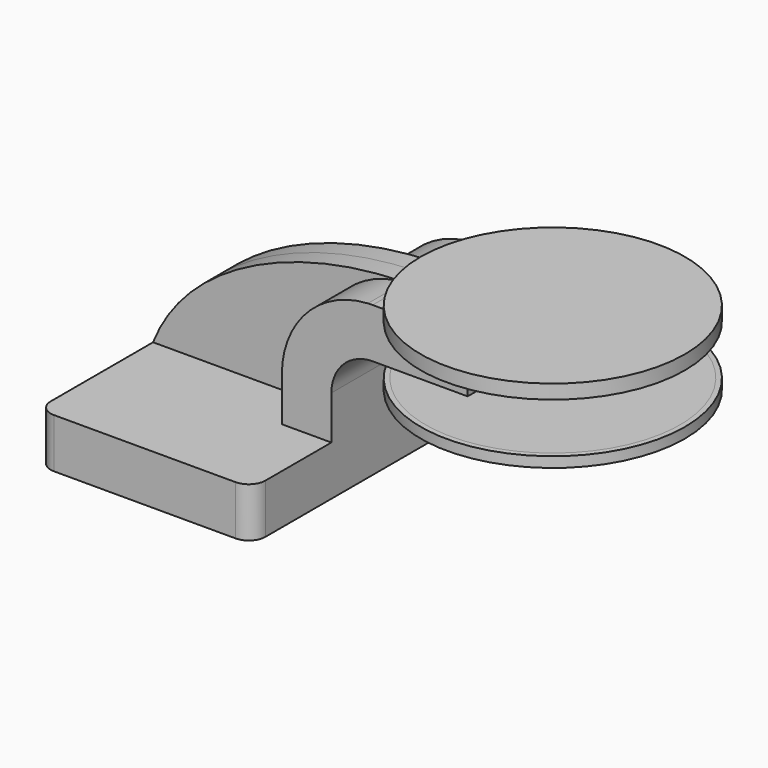
from build123d import *

# Parameters (mm, degrees)
F1_DEPTH = 63.5
F2_DEPTH = 25.4
F3_DEPTH = 7.9375
F5_R     = 6.35


with BuildPart() as f1:
    # F0 (on Front) → F1 (new body, symmetric)
    with BuildSketch(Plane.XZ):
        Polygon((41.275, -9.525), (41.275, 9.525), (22.225, 9.525), (-41.275, 9.525), (-41.275, -9.525), align=None)
    extrude(amount=F1_DEPTH, both=True)

    # F0 (on Front) → F2 (join, symmetric)
    with BuildSketch(Plane.XZ):
        with BuildLine():
            Line((22.225, 9.525), (41.275, 9.525))
            Line((41.275, 9.525), (41.275, 26.3144))
            ThreePointArc((41.275, 26.3144), (45.293372, 36.870725), (55.314181, 42.082894))
            Line((55.314181, 42.082894), (55.314181, 61.191117))
            ThreePointArc((55.314181, 61.191117), (31.813548, 50.352283), (22.225, 26.3144))
            Line((22.225, 26.3144), (22.225, 9.525))
        make_face()
        with BuildLine():
            Line((55.314181, 61.191117), (55.314181, 42.082894))
            ThreePointArc((55.314181, 42.082894), (56.230547, 42.162751), (57.15, 42.1894))
            Line((57.15, 42.1894), (93.6752, 42.1894))
            Line((93.6752, 42.1894), (93.6752, 61.2394))
            Line((93.6752, 61.2394), (57.15, 61.2394))
            ThreePointArc((57.15, 61.2394), (56.231773, 61.227327), (55.314181, 61.191117))
        make_face()
    extrude(amount=F2_DEPTH, both=True)

    # F0 (on Front) → F3 (join, symmetric)
    with BuildSketch(Plane.XZ):
        with BuildLine():
            Line((-41.275, 9.525), (22.225, 9.525))
            Line((22.225, 9.525), (22.225, 26.3144))
            ThreePointArc((22.225, 26.3144), (31.813548, 50.352283), (55.314181, 61.191117))
            Line((55.314181, 61.191117), (55.314181, 61.238162))
            add(Edge.make_bspline(
                [(-41.275, 9.525), (-27.701957, 44.061394), (17.112535, 60.946012), (55.314181, 61.238162)],
                knots=[0, 0, 0, 0, 109.426003, 109.426003, 109.426003, 109.426003], degree=3))
        make_face()
    extrude(amount=F3_DEPTH, both=True)

    # F5
    f5_edges = [f1.edges().sort_by_distance(p)[0] for p in [
        (41.275, -63.5, 0),
        (-41.275, -63.5, 0),
        (41.275, 63.5, 0),
        (-41.275, 63.5, 0),
    ]]
    fillet(f5_edges, radius=F5_R)


with BuildPart() as f4:
    # F0 (on Front) → F4 (revolve)
    with BuildSketch(Plane.XZ):
        with BuildLine():
            ThreePointArc((57.15, 42.1894), (56.230547, 42.162751), (55.314181, 42.082894))
            Line((55.314181, 42.082894), (55.314181, 38.1))
            Line((55.314181, 38.1), (106.114181, 38.1))
            Line((106.114181, 38.1), (106.114181, 66.675))
            Line((106.114181, 66.675), (55.314181, 66.675))
            Line((55.314181, 66.675), (55.314181, 61.238162))
            add(Edge.make_bspline(
                [(55.314181, 61.238162), (55.92788, 61.242855), (56.539872, 61.243267), (57.15, 61.2394)],
                knots=[109.426003, 109.426003, 109.426003, 109.426003, 111.183901, 111.183901, 111.183901, 111.183901], degree=3))
            Line((57.15, 61.2394), (93.6752, 61.2394))
            Line((93.6752, 61.2394), (93.6752, 42.1894))
            Line((93.6752, 42.1894), (57.15, 42.1894))
        make_face()
    revolve(axis=Axis((106.114181, 0, 52.3875), (0, 0, 1)))


solid = Compound([f1.part, f4.part])
